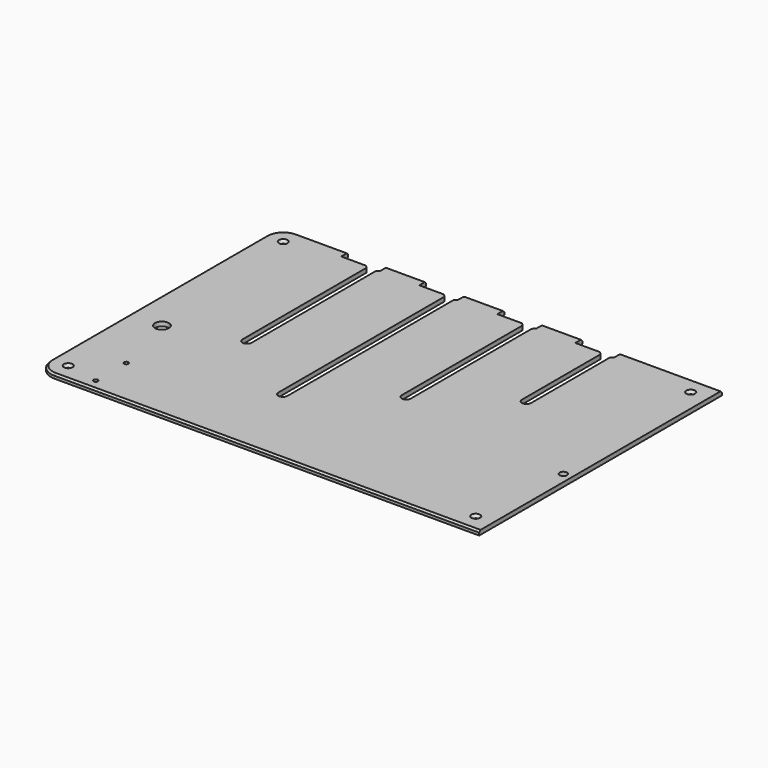
from build123d import *

# Parameters (mm, degrees)
SKETCH018_W     = 510
SKETCH018_H     = 350
PAD015_DEPTH    = 5
SKETCH019_R     = 8
SKETCH019_R_2   = 4.25
POCKET011_DEPTH = 5.001
FILLET005_R     = 20
SKETCH020_R     = 2
POCKET012_DEPTH = 5.001
CHAMFER009_SIZE = 6
CHAMFER010_SIZE = 2
CHAMFER011_SIZE = 3
SKETCH052_W     = 45
SKETCH052_H     = 10
POCKET033_DEPTH = 5.001
CHAMFER024_SIZE = 2.99
SKETCH068_R     = 2.5
POCKET043_DEPTH = 5.001


with BuildPart() as part:
    # Sketch018 → Pad015 (new body)
    with BuildSketch(Plane.XY):
        with Locations((-20, 41.2)):
            Rectangle(SKETCH018_W, SKETCH018_H)
    extrude(amount=PAD015_DEPTH)

    # Sketch019 (on Face6 of Pad015) → Pocket011 (cut, through all)
    with BuildSketch(Plane.XY.offset(5)):
        with Locations((-238, 0)):
            Circle(SKETCH019_R)
        with Locations((225, 0)):
            Circle(SKETCH019_R_2)
        with BuildLine():
            ThreePointArc((-164.573184, 24.404903), (-159.323184, 19.154903), (-154.073184, 24.404903))
            Line((-154.073184, 24.404903), (-154.073184, 216.2))
            ThreePointArc((-154.073184, 216.2), (-159.323184, 221.45), (-164.573184, 216.2))
            Line((-164.573184, 24.404903), (-164.573184, 216.2))
        make_face()
        with BuildLine():
            ThreePointArc((-74.573184, -36.417713), (-69.323184, -41.667713), (-64.073184, -36.417713))
            Line((-64.073184, -36.417713), (-64.073184, 216.2))
            ThreePointArc((-64.073184, 216.2), (-69.323184, 221.45), (-74.573184, 216.2))
            Line((-74.573184, -36.417713), (-74.573184, 216.2))
        make_face()
        with BuildLine():
            ThreePointArc((15.426816, 28.977719), (20.676816, 23.727719), (25.926816, 28.977719))
            Line((25.926816, 28.977719), (25.926816, 216.2))
            ThreePointArc((25.926816, 216.2), (20.676816, 221.45), (15.426816, 216.2))
            Line((15.426816, 28.977719), (15.426816, 216.2))
        make_face()
        with BuildLine():
            ThreePointArc((105.426816, 89.800335), (110.676816, 84.550335), (115.926816, 89.800335))
            Line((115.926816, 89.800335), (115.926816, 216.2))
            ThreePointArc((115.926816, 216.2), (110.676816, 221.45), (105.426816, 216.2))
            Line((105.426816, 89.800335), (105.426816, 216.2))
        make_face()
    extrude(amount=-POCKET011_DEPTH, mode=Mode.SUBTRACT)

    # Fillet005
    fillet005_edges = [part.edges().sort_by_distance(p)[0] for p in [
        (-275, 216.2, 2.5),
        (-275, -133.8, 2.5),
    ]]
    fillet(fillet005_edges, radius=FILLET005_R)

    # Sketch020 (on Face5 of Fillet005) → Pocket012 (cut, through all)
    with BuildSketch(Plane.XY.offset(5)):
        with Locations((-255, 196.2)):
            Circle(SKETCH020_R)
        with Locations((-255, -113.8)):
            Circle(SKETCH020_R)
        with Locations((215, -113.8)):
            Circle(SKETCH020_R)
        with Locations((215, 196.2)):
            Circle(SKETCH020_R)
    extrude(amount=-POCKET012_DEPTH, mode=Mode.SUBTRACT)

    # Chamfer009
    chamfer009_edges = [part.edges().sort_by_distance(p)[0] for p in [
        (-164.573184, 216.2, 2.5),
        (-154.073184, 216.2, 2.5),
        (-74.573184, 216.2, 2.5),
        (-64.073184, 216.2, 2.5),
        (15.426816, 216.2, 2.5),
        (25.926816, 216.2, 2.5),
        (105.426816, 216.2, 2.5),
        (115.926816, 216.2, 2.5),
    ]]
    chamfer(chamfer009_edges, length=CHAMFER009_SIZE)

    # Chamfer010
    chamfer010_edges = [part.edges().sort_by_distance(p)[0] for p in [
        (-212.786592, 216.2, 5),
        (-114.323184, 216.2, 5),
        (-24.323184, 216.2, 5),
        (65.676816, 216.2, 5),
        (178.463408, 216.2, 5),
    ]]
    chamfer(chamfer010_edges, length=CHAMFER010_SIZE)

    # Chamfer011
    chamfer011_edges = [part.edges().sort_by_distance(p)[0] for p in [
        (-257, 196.2, 5),
        (-257, -113.8, 5),
        (213, -113.8, 5),
        (213, 196.2, 5),
    ]]
    chamfer(chamfer011_edges, length=CHAMFER011_SIZE)

    # Sketch052 (on Face1 of Chamfer011) → Pocket033 (cut, through all)
    with BuildSketch(Plane.XY.offset(5)):
        with Locations((-173.573184, 211.2)):
            Rectangle(SKETCH052_W, SKETCH052_H)
        with Locations((-83.573184, 211.2)):
            Rectangle(SKETCH052_W, SKETCH052_H)
        with Locations((6.426816, 211.2)):
            Rectangle(SKETCH052_W, SKETCH052_H)
        with Locations((96.426816, 211.2)):
            Rectangle(SKETCH052_W, SKETCH052_H)
    extrude(amount=-POCKET033_DEPTH, mode=Mode.SUBTRACT)

    # Chamfer024
    chamfer024_edges = [part.edges().sort_by_distance(p)[0] for p in [
        (-164.573184, 206.2, 2.5),
        (-154.073184, 206.2, 2.5),
        (-74.573184, 206.2, 2.5),
        (-64.073184, 206.2, 2.5),
        (15.426816, 206.2, 2.5),
        (25.926816, 206.2, 2.5),
        (105.426816, 206.2, 2.5),
        (115.926816, 206.2, 2.5),
    ]]
    chamfer(chamfer024_edges, length=CHAMFER024_SIZE)

    # Sketch068 (on Face1 of Chamfer024) → Pocket043 (cut, through all)
    with BuildSketch(Plane.XY.offset(5)):
        with Locations((-217.5, -77)):
            Circle(SKETCH068_R)
        with Locations((-217.5, -121)):
            Circle(SKETCH068_R)
    extrude(amount=-POCKET043_DEPTH, mode=Mode.SUBTRACT)


with BuildPart() as part_1:
    # Body011 placement: moved
    add(part.part.moved(Location((0, 0, 10.25))))


solid = part_1.part
